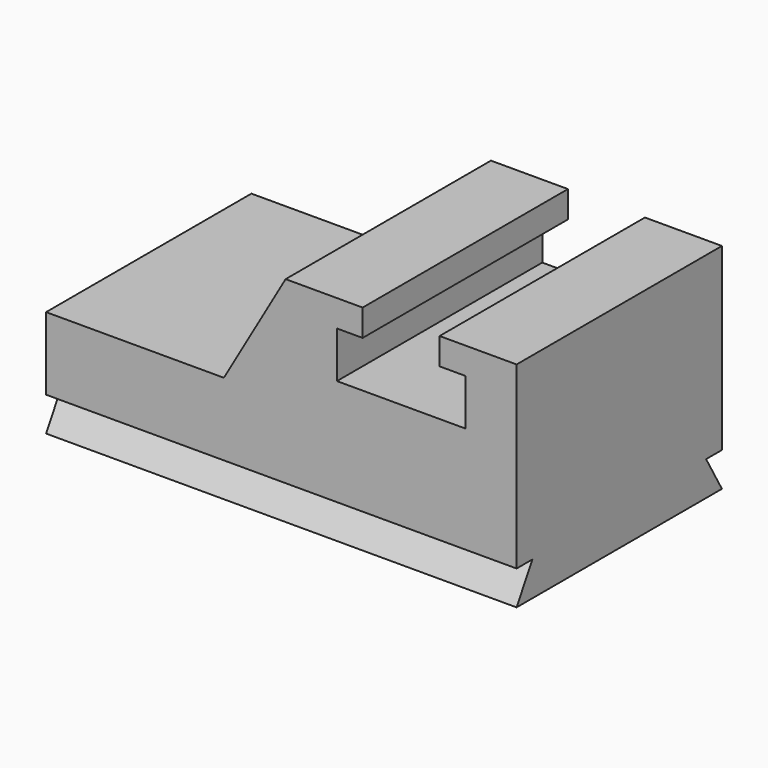
from build123d import *

# Parameters (mm, degrees)
F0_W     = 2794
F0_H     = 203.2
F1_DEPTH = 1524
F3_DEPTH = 2794


with BuildPart() as f1:
    # F0 (on Front) → F1 (new body)
    with BuildSketch(Plane.XZ):
        Polygon((-1327.05712, -24.3804), (-1327.05712, -456.1804), (1466.94288, -456.1804), (1466.94288, 610.6196), (1009.74288, 610.6196), (1009.74288, 451.869619), (1162.14288, 451.869619), (1162.14288, 176.702946), (400.14288, 176.702946), (400.14288, 451.869619), (552.54288, 451.869619), (552.54288, 610.6196), (95.34288, 610.6196), (-271.274541, -24.3804), align=None)
        with Locations((69.94288, -557.7804)):
            Rectangle(F0_W, F0_H)
    extrude(amount=F1_DEPTH)

    # F2 (on face) → F3 (cut)
    with BuildSketch(Plane(origin=(-1327.05712, 0, 0), x_dir=(0, -1, 0), z_dir=(-1, 0, 0))):
        Polygon((117.317575, -456.1804), (0, -456.1804), (0, -659.3804), align=None)
        Polygon((1524, -456.1804), (1406.682425, -456.1804), (1524, -659.3804), align=None)
    extrude(amount=-F3_DEPTH, mode=Mode.SUBTRACT)


solid = f1.part
